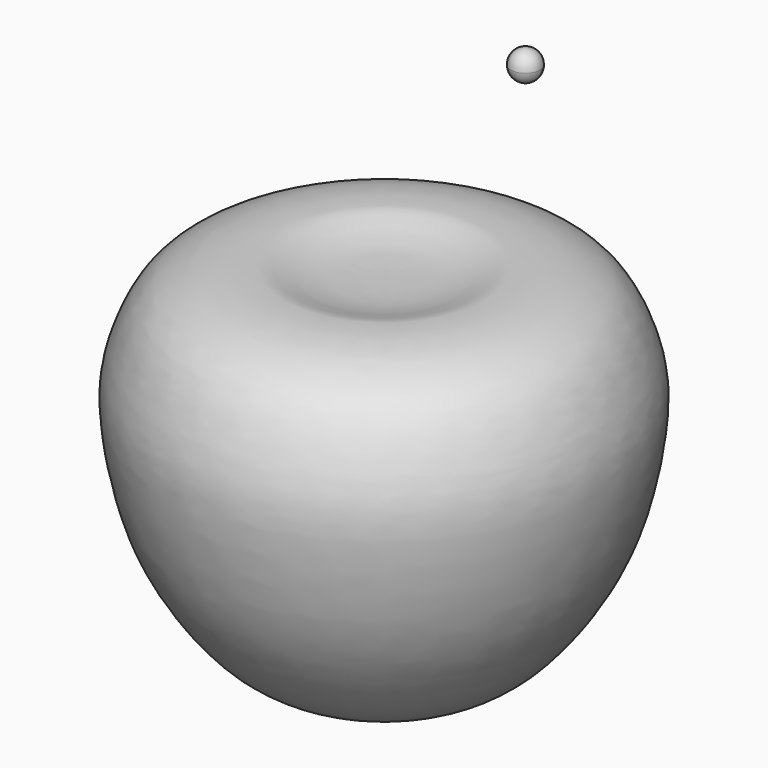
from build123d import *


with BuildPart() as f3:
    # F0 (on Front) → F3 (revolve)
    with BuildSketch(Plane.XZ):
        with BuildLine():
            Line((0, -47.0153912902), (0, 46.034347266))
            add(Edge.make_bspline(
                [(0, -47.0153912902), (-1.516339815, -47.5932027498), (-4.7671928627, -48.8319621137), (-11.378402391, -50.3447058442), (-20.8628520376, -49.2535464353), (-34.3068044592, -43.2969139378), (-46.2580928392, -29.5928926636), (-56.8536606391, -10.9521241035), (-61.5733824013, 15.0918916214), (-59.9969305828, 27.4534232273), (-54.3744293113, 40.7375219016), (-46.8935748239, 46.4026733175), (-38.181044506, 49.3490611942), (-30.1903448185, 49.8920407259), (-25.1616548506, 49.8147560444), (-18.0465228417, 47.0950629647), (-9.1174059848, 45.9911294801), (-3.0415708539, 46.0199297926), (0, 46.034347266)],
                knots=[0, 0, 0, 0, 0.0424695543, 0.0910496966, 0.1490063343, 0.2207576579, 0.3007564884, 0.3899175162, 0.4862590874, 0.5539324309, 0.6238639569, 0.6812469127, 0.738540688, 0.7917130653, 0.8338131706, 0.8853147768, 0.9425884303, 1, 1, 1, 1], degree=3))
        make_face()
    revolve(axis=Axis((0, 0, -0.4905220121), (0, 0, -1)))


with BuildPart() as f4:
    # F1 (on Front) → F4 (revolve)
    with BuildSketch(Plane.XZ):
        with BuildLine():
            add(Edge.make_bspline(
                [(39.5218520035, 106.4345204714), (39.540962207, 107.9164389076), (39.1000122355, 109.104114734), (38.6530372155, 110.2879370934)],
                knots=[0.9267692807, 0.9267692807, 0.9267692807, 0.9267692807, 0.9990409545, 0.9990409545, 0.9990409545, 0.9990409545], degree=3))
            ThreePointArc((39.5218520035, 106.4345204714), (41.7614844257, 107.8396842286), (42.6352805991, 110.3350637224))
            ThreePointArc((42.6352805991, 110.3350637224), (41.4699810546, 113.1572199179), (38.6530372155, 114.3350637224))
            Line((38.6530372155, 114.3350637224), (38.6530372155, 110.2879370934))
        make_face()
        with BuildLine():
            ThreePointArc((38.6530372155, 106.3350637224), (39.0901706822, 106.3609782051), (39.5218520035, 106.4345204714))
            add(Edge.make_bspline(
                [(39.5218520035, 106.4345204714), (39.540962207, 107.9164389076), (39.1000122355, 109.104114734), (38.6530372155, 110.2879370934)],
                knots=[0.9267692807, 0.9267692807, 0.9267692807, 0.9267692807, 0.9990409545, 0.9990409545, 0.9990409545, 0.9990409545], degree=3))
            Line((38.6530372155, 110.2879370934), (38.6530372155, 106.3350637224))
        make_face()
    revolve(axis=Axis((38.6530372155, 0, 110.3350637224), (0, 0, -1)))


solid = Compound([f3.part, f4.part])
